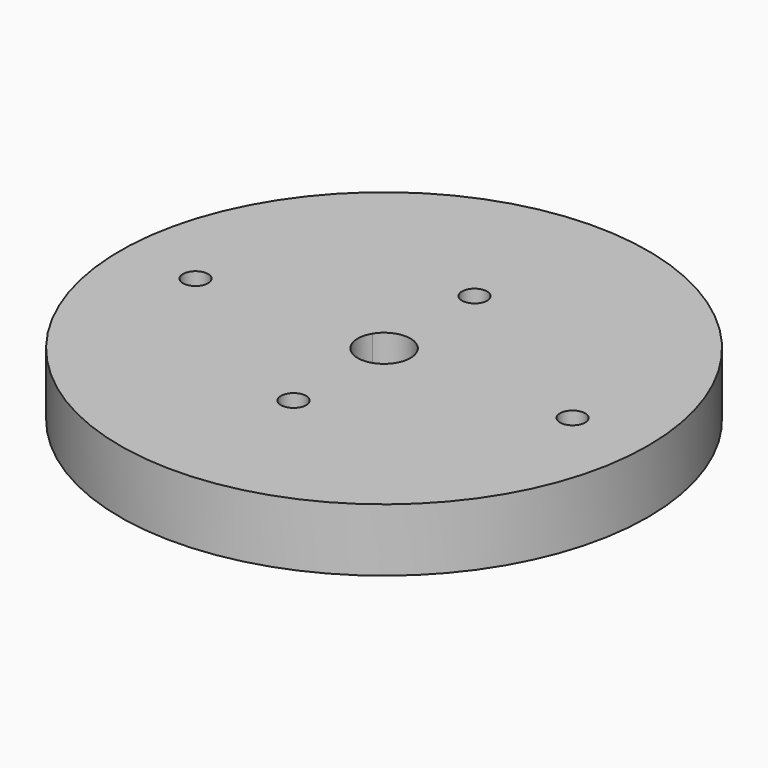
from build123d import *

# Parameters (mm, degrees)
F0_R     = 21
F1_DEPTH = 5
F2_D     = 2
F2_DEPTH = 10
F8_DEPTH = 25


with BuildPart() as f1:
    # F0 (on Top) → F1 (new body)
    with BuildSketch(Plane.XY):
        Circle(F0_R)
    extrude(amount=F1_DEPTH)

    # F2
    with Locations(Plane(origin=(0, 0, 0), x_dir=(1, 0, 0), z_dir=(0, 0, -1))):
        with Locations((0, 9), (15, 0), (0, -9), (-15, 0)):
            Hole(F2_D / 2, depth=F2_DEPTH)

    # F6: sweep along a path in F3
    with BuildLine(Plane.XY) as f6_path:
        CenterArc((0, 0), 12.5, 0, 360)
    # F5 (on Front) → F6 (sweep)
    with BuildSketch(Plane.XZ):
        with BuildLine():
            Line((-11.9, 0), (-13.1, 0))
            ThreePointArc((-13.1, 0), (-12.5, -0.6), (-11.9, 0))
        make_face()
    sweep(path=f6_path.line)

    # F7 (on face) → F8 (cut)
    with BuildSketch(Plane.XY.offset(5)):
        with BuildLine():
            ThreePointArc((1.788854, -1.1), (2.020717, -0.571579), (2.1, 0))
            ThreePointArc((2.1, 0), (2.020717, 0.571579), (1.788854, 1.1))
            Line((1.788854, 1.1), (-1.788854, 1.1))
            ThreePointArc((-1.788854, 1.1), (-2.1, 0), (-1.788854, -1.1))
            Line((-1.788854, -1.1), (1.788854, -1.1))
        make_face()
        with BuildLine():
            ThreePointArc((-1.788854, -1.1), (0, -2.1), (1.788854, -1.1))
            Line((1.788854, -1.1), (-1.788854, -1.1))
        make_face()
        with BuildLine():
            Line((-1.788854, 1.1), (1.788854, 1.1))
            ThreePointArc((1.788854, 1.1), (0, 2.1), (-1.788854, 1.1))
        make_face()
    extrude(amount=-F8_DEPTH, mode=Mode.SUBTRACT)

    # F11: sweep along a path in F9
    with BuildLine(Plane.XY) as f11_path:
        CenterArc((0, 0), 17.5, 0, 360)
    # F10 (on Front) → F11 (sweep)
    with BuildSketch(Plane.XZ):
        with BuildLine():
            Line((18.1, 0), (16.9, 0))
            ThreePointArc((16.9, 0), (17.5, -0.6), (18.1, 0))
        make_face()
    sweep(path=f11_path.line)


solid = f1.part
